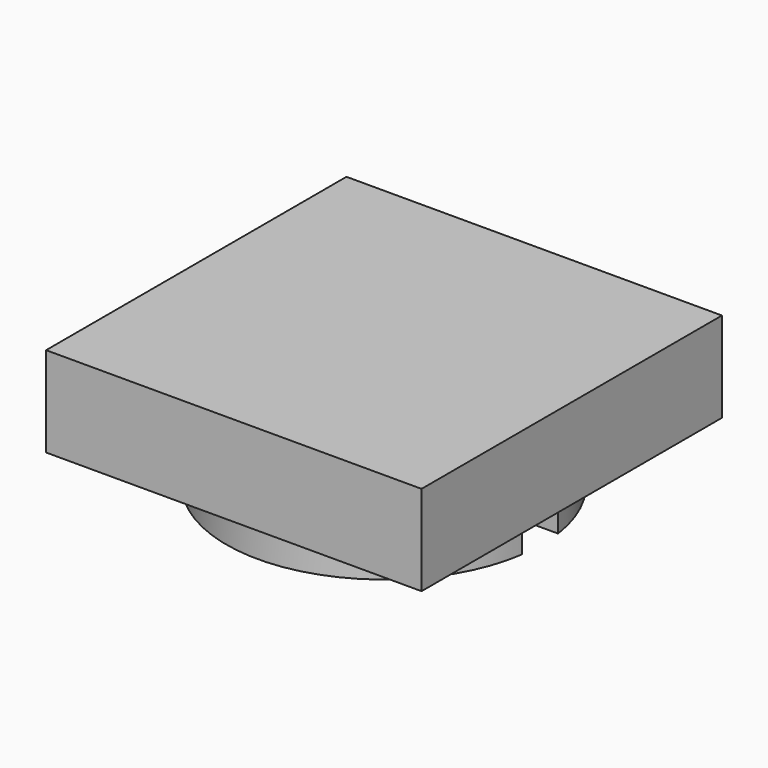
from build123d import *

# Parameters (mm, degrees)
F0_W          = 25
F0_H          = 25
F1_DEPTH      = 6
F2_R          = 10.5
F3_DEPTH      = 3
F4_R          = 8.5
F5_DEPTH      = 2
F6_W          = 3
F6_H          = 5
F7_DEPTH      = 25
F7_DEPTH_BACK = 25


with BuildPart() as f1:
    # F0 (on Top) → F1 (new body)
    with BuildSketch(Plane.XY):
        Rectangle(F0_W, F0_H)
    extrude(amount=F1_DEPTH)

    # F2 (on face) → F3 (join)
    with BuildSketch(Plane(origin=(0, 0, 0), x_dir=(1, 0, 0), z_dir=(0, 0, -1))):
        Circle(F2_R)
    extrude(amount=F3_DEPTH)

    # F4 (on face) → F5 (cut)
    with BuildSketch(Plane(origin=(0, 0, -3), x_dir=(1, 0, 0), z_dir=(0, 0, -1))):
        Circle(F4_R)
    extrude(amount=-F5_DEPTH, mode=Mode.SUBTRACT)

    # F6 (on Right) → F7 (cut, two sides)
    with BuildSketch(Plane.YZ) as f7_sk:
        with Locations((0, -2.5)):
            Rectangle(F6_W, F6_H)
    extrude(amount=-F7_DEPTH, mode=Mode.SUBTRACT)
    extrude(f7_sk.sketch, amount=F7_DEPTH_BACK, mode=Mode.SUBTRACT)


solid = f1.part
